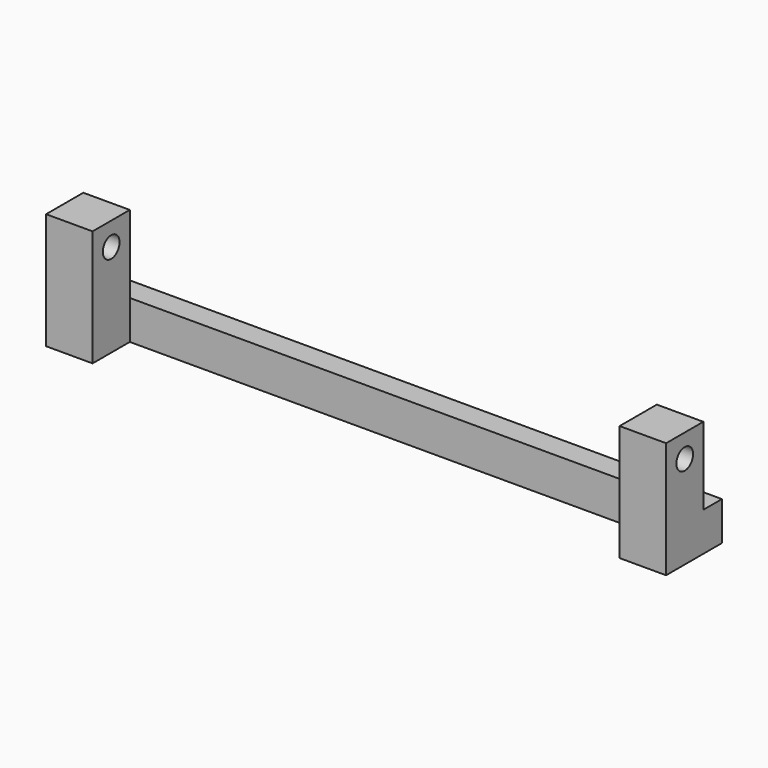
from build123d import *

# Parameters (mm, degrees)
F1_DEPTH = 15
F2_W     = 68
F2_H     = 3
F3_DEPTH = 10
F4_R     = 1.35
F5_DEPTH = 8
F6_W     = 3
F6_H     = 10
F6_R     = 1.35
F7_DEPTH = 80.001


with BuildPart() as f1:
    # F0 (on Top) → F1 (new body)
    with BuildSketch(Plane.XY):
        Polygon((-40, -4.5), (-34, -4.5), (-34, 1.5), (0, 1.5), (34, 1.5), (34, -4.5), (40, -4.5), (40, 4.5), (34, 4.5), (0, 4.5), (-34, 4.5), (-40, 4.5), align=None)
    extrude(amount=F1_DEPTH)

    # F2 (on face) → F3 (cut)
    with BuildSketch(Plane.XY.offset(15)):
        with Locations((0, 3)):
            Rectangle(F2_W, F2_H)
    extrude(amount=-F3_DEPTH, mode=Mode.SUBTRACT)

    # F4 (on face) → F5 (cut)
    with BuildSketch(Plane(origin=(0, 0, 0), x_dir=(1, 0, 0), z_dir=(0, 0, -1))):
        with Locations((37, 1.5)):
            Circle(F4_R)
        with Locations((-37, 1.5)):
            Circle(F4_R)
    extrude(amount=-F5_DEPTH, mode=Mode.SUBTRACT)

    # F6 (on face) → F7 (cut, through all)
    with BuildSketch(Plane.YZ.offset(40)):
        with Locations((3, 10)):
            Rectangle(F6_W, F6_H)
        with Locations((-1.5, 12)):
            Circle(F6_R)
    extrude(amount=-F7_DEPTH, mode=Mode.SUBTRACT)


solid = f1.part
